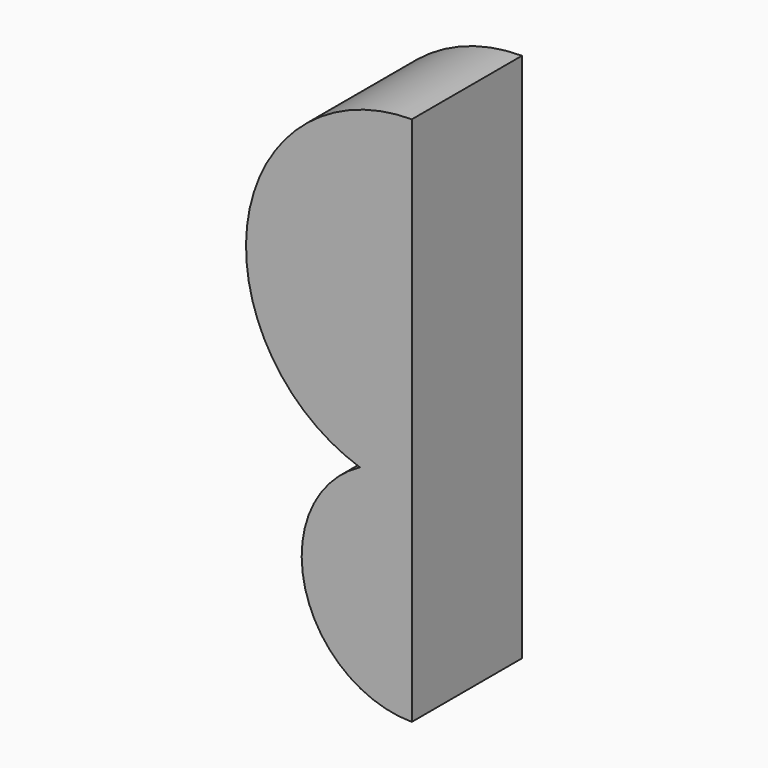
from build123d import *

# Parameters (mm, degrees)
F1_DEPTH = 12.5


with BuildPart() as f1:
    # F0 (on Front) → F1 (new body, symmetric)
    with BuildSketch(Plane.XZ):
        with BuildLine():
            ThreePointArc((0, 76.335706), (-29.726362, 51.004737), (-9.432464, 17.636003))
            ThreePointArc((-9.432464, 17.636003), (-19.400001, -4.862095), (0, -20))
            Line((0, -20), (0, 76.335706))
        make_face()
    extrude(amount=F1_DEPTH, both=True)


solid = f1.part
